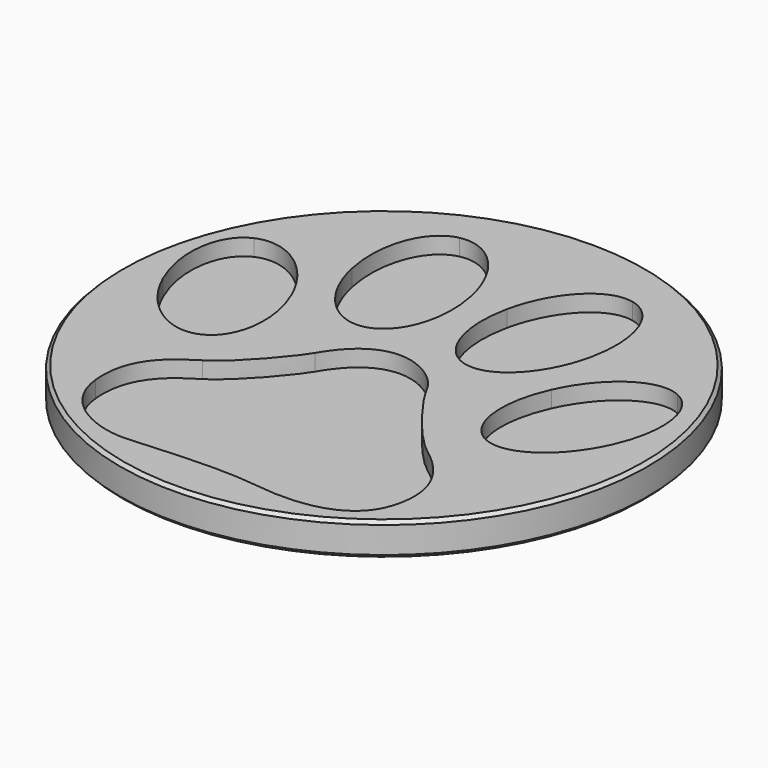
from build123d import *

# Parameters (mm, degrees)
POCKET_DEPTH = 1.25


with BuildPart() as part:
    # Sketch (on DatumPlane) → Revolution (revolve)
    with BuildSketch(Plane.YZ):
        Polygon((0, 0), (0, -2.5), (19.75, -2.5), (20, -2.25), (20, -0.25), (19.75, 0), align=None)
    revolve(axis=Axis((0, 0, 0), (0, 0, 1)))

    # Sketch005 → Pocket (cut)
    with BuildSketch(Plane.XY):
        with BuildLine():
            add(Edge.make_bspline(
                [(-9.952404, 3.739768), (-8.508605, 0.536828), (-8.949612, -2.784858), (-10.937289, -3.681478)],
                knots=[0, 0, 0, 0, 1, 1, 1, 1], degree=3))
            add(Edge.make_bspline(
                [(-10.937289, -3.681478), (-12.92503, -4.578098), (-15.706774, -2.709293), (-17.150447, 0.493013)],
                knots=[0, 0, 0, 0, 1, 1, 1, 1], degree=3))
            add(Edge.make_bspline(
                [(-17.150447, 0.493013), (-18.594246, 3.695318), (-18.153302, 7.01732), (-16.165562, 7.913813)],
                knots=[0, 0, 0, 0, 1, 1, 1, 1], degree=3))
            add(Edge.make_bspline(
                [(-16.165562, 7.913813), (-14.177821, 8.810052), (-11.396204, 6.941184), (-9.952404, 3.739768)],
                knots=[0, 0, 0, 0, 1, 1, 1, 1], degree=3))
        make_face()
        with BuildLine():
            add(Edge.make_bspline(
                [(9.695893, 3.739768), (8.25203, 0.536828), (8.693037, -2.784858), (10.680905, -3.681478)],
                knots=[0, 0, 0, 0, 1, 1, 1, 1], degree=3))
            add(Edge.make_bspline(
                [(10.680905, -3.681478), (12.668645, -4.578098), (15.450136, -2.709293), (16.894126, 0.493013)],
                knots=[0, 0, 0, 0, 1, 1, 1, 1], degree=3))
            add(Edge.make_bspline(
                [(16.894126, 0.493013), (18.337735, 3.695318), (17.896727, 7.01732), (15.90905, 7.913813)],
                knots=[0, 0, 0, 0, 1, 1, 1, 1], degree=3))
            add(Edge.make_bspline(
                [(15.90905, 7.913813), (13.921437, 8.810052), (11.139692, 6.941184), (9.695893, 3.739768)],
                knots=[0, 0, 0, 0, 1, 1, 1, 1], degree=3))
        make_face()
        with BuildLine():
            add(Edge.make_bspline(
                [(-1.503564, 10.159173), (-0.763484, 6.725792), (-1.8916, 3.570223), (-4.023162, 3.110483)],
                knots=[0, 0, 0, 0, 1, 1, 1, 1], degree=3))
            add(Edge.make_bspline(
                [(-4.023162, 3.110483), (-6.154565, 2.651378), (-8.482443, 5.062473), (-9.222408, 8.495537)],
                knots=[0, 0, 0, 0, 1, 1, 1, 1], degree=3))
            add(Edge.make_bspline(
                [(-9.222408, 8.495537), (-9.962374, 11.928855), (-8.834296, 15.084551), (-6.702779, 15.543846)],
                knots=[0, 0, 0, 0, 1, 1, 1, 1], degree=3))
            add(Edge.make_bspline(
                [(-6.702779, 15.543846), (-4.571281, 16.003332), (-2.243517, 13.592555), (-1.503564, 10.159173)],
                knots=[0, 0, 0, 0, 1, 1, 1, 1], degree=3))
        make_face()
        with BuildLine():
            add(Edge.make_bspline(
                [(1.194043, 10.156252), (0.454611, 6.722934), (1.581926, 3.567048), (3.713329, 3.107943)],
                knots=[0, 0, 0, 0, 1, 1, 1, 1], degree=3))
            add(Edge.make_bspline(
                [(3.713329, 3.107943), (5.844872, 2.648203), (8.172655, 5.059298), (8.912557, 8.492552)],
                knots=[0, 0, 0, 0, 1, 1, 1, 1], degree=3))
            add(Edge.make_bspline(
                [(8.912557, 8.492552), (9.652586, 11.925934), (8.524635, 15.08163), (6.393004, 15.540925)],
                knots=[0, 0, 0, 0, 1, 1, 1, 1], degree=3))
            add(Edge.make_bspline(
                [(6.393004, 15.540925), (4.261448, 16.000284), (1.933716, 13.589634), (1.194043, 10.156252)],
                knots=[0, 0, 0, 0, 1, 1, 1, 1], degree=3))
        make_face()
        with BuildLine():
            add(Edge.make_bspline(
                [(-4.171396, -1.318008), (-4.691613, -2.216533), (-7.102321, -5.190873), (-8.769717, -6.205603)],
                knots=[0, 0, 0, 0, 1, 1, 1, 1], degree=3))
            add(Edge.make_bspline(
                [(-8.769717, -6.205603), (-10.436973, -7.220333), (-12.503009, -8.706233), (-12.156299, -12.118088)],
                knots=[0, 0, 0, 0, 1, 1, 1, 1], degree=3))
            add(Edge.make_bspline(
                [(-12.156299, -12.118088), (-11.809779, -15.530578), (-8.309786, -16.991078), (-6.005708, -16.861538)],
                knots=[0, 0, 0, 0, 1, 1, 1, 1], degree=3))
            add(Edge.make_bspline(
                [(-6.005708, -16.861538), (-3.701502, -16.732633), (0.642698, -16.308453), (3.744273, -16.738348)],
                knots=[0, 0, 0, 0, 1, 1, 1, 1], degree=3))
            add(Edge.make_bspline(
                [(3.744273, -16.738348), (6.845695, -17.168243), (10.760153, -16.842488), (11.676839, -13.575413)],
                knots=[0, 0, 0, 0, 1, 1, 1, 1], degree=3))
            add(Edge.make_bspline(
                [(11.676839, -13.575413), (12.593525, -10.308338), (10.543364, -8.226808), (8.943545, -7.045708)],
                knots=[0, 0, 0, 0, 1, 1, 1, 1], degree=3))
            add(Edge.make_bspline(
                [(8.943545, -7.045708), (7.343789, -5.865243), (4.672217, -2.334008), (3.849137, -0.712853)],
                knots=[0, 0, 0, 0, 1, 1, 1, 1], degree=3))
            add(Edge.make_bspline(
                [(3.849137, -0.712853), (3.026177, 0.907668), (-1.162715, 3.875658), (-4.171396, -1.318008)],
                knots=[0, 0, 0, 0, 1, 1, 1, 1], degree=3))
        make_face()
    extrude(amount=-POCKET_DEPTH, mode=Mode.SUBTRACT)


solid = part.part
